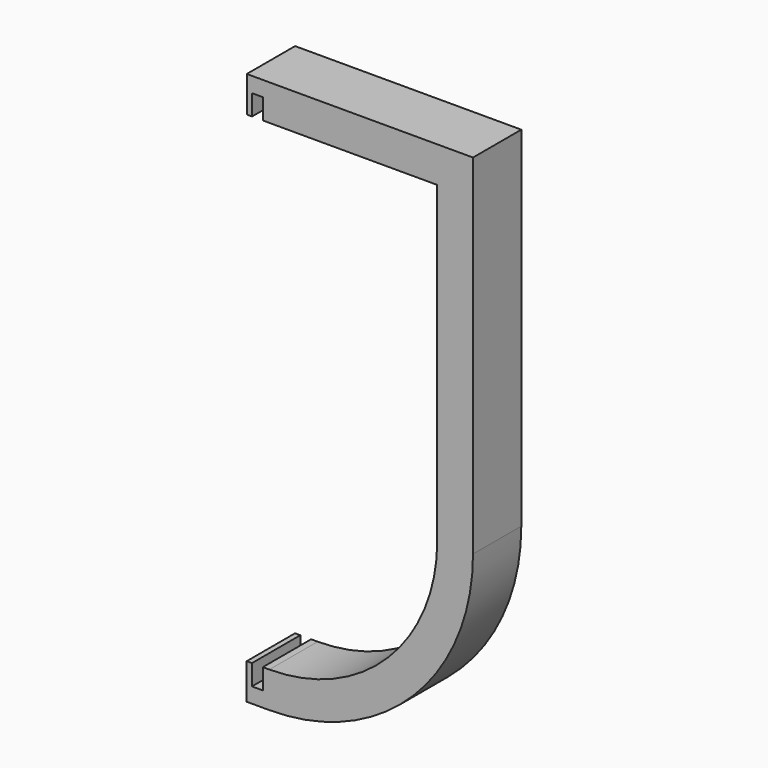
from build123d import *

# Parameters (mm, degrees)
F1_DEPTH = 25.4


with BuildPart() as f1:
    # F0 (on Front) → F1 (new body)
    with BuildSketch(Plane.XZ):
        with BuildLine():
            Line((0, -70.6374), (0, -85.678593))
            ThreePointArc((0, -85.678593), (60.583914, -60.583914), (85.678593, 0))
            Line((85.678593, 0), (70.6374, 0))
            ThreePointArc((70.6374, 0), (49.948185, -49.948185), (0, -70.6374))
        make_face()
        Polygon((70.6374, 0), (85.678593, 0), (85.678593, 131.826), (85.678593, 146.863619), (70.6374, 146.863619), (0, 146.863619), (0, 131.826819), (0, 131.826), (70.6374, 131.826), align=None)
        Polygon((-2.709501, 131.826819), (0, 131.826819), (0, 146.863619), (-9.497362, 146.863619), (-9.497362, 131.826819), (-7.281501, 131.826819), (-7.281501, 140.462819), (-2.709501, 140.462819), align=None)
        Polygon((-9.529586, -85.678593), (0, -85.678593), (0, -70.6374), (-2.745675, -70.6374), (-2.745675, -79.2734), (-7.317675, -79.2734), (-7.317675, -70.6374), (-9.529586, -70.6374), align=None)
    extrude(amount=F1_DEPTH)


solid = f1.part
